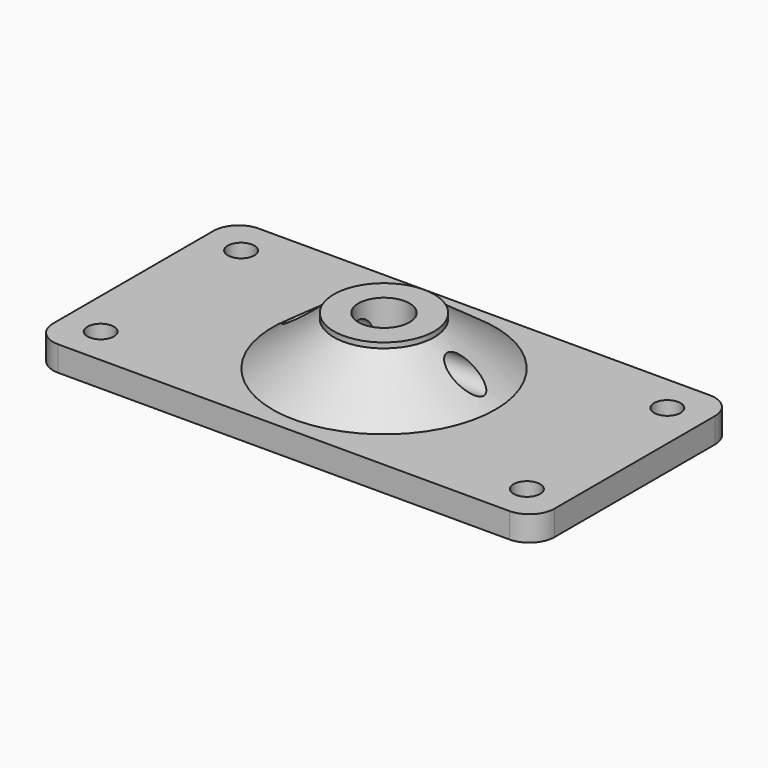
from build123d import *

# Parameters (mm, degrees)
F0_W           = 100
F0_H           = 50
F1_DEPTH       = 5
F2_R           = 10
F3_DEPTH       = 10
F4_R           = 5.1
F5_DEPTH       = 25
F6_R           = 5
F7_R           = 2.65
F8_DEPTH       = 25
F11_R          = 2.6
F12_DEPTH      = 25
F12_DEPTH_BACK = 25


with BuildPart() as f1:
    # F0 (on Top) → F1 (new body)
    with BuildSketch(Plane.XY):
        Rectangle(F0_W, F0_H)
    extrude(amount=F1_DEPTH)

    # F2 (on face) → F3 (join)
    with BuildSketch(Plane.XY.offset(5)):
        Circle(F2_R)
    extrude(amount=F3_DEPTH)

    # F4 (on face) → F5 (cut)
    with BuildSketch(Plane.XY.offset(15)):
        Circle(F4_R)
    extrude(amount=-F5_DEPTH, mode=Mode.SUBTRACT)

    # F6
    f6_edges = [f1.edges().sort_by_distance(p)[0] for p in [
        (-50, -25, 2.5),
        (-50, 25, 2.5),
        (50, 25, 2.5),
        (50, -25, 2.5),
    ]]
    fillet(f6_edges, radius=F6_R)

    # F7 (on face) → F8 (cut)
    with BuildSketch(Plane.XY.offset(5)):
        with Locations((42.5, 17.5)):
            Circle(F7_R)
        with Locations((42.5, -17.5)):
            Circle(F7_R)
        with Locations((-42.5, -17.5)):
            Circle(F7_R)
        with Locations((-42.5, 17.5)):
            Circle(F7_R)
    extrude(amount=-F8_DEPTH, mode=Mode.SUBTRACT)

    # F9 (on Front) → F10 (revolve)
    with BuildSketch(Plane.XZ):
        Polygon((22.2268737853, 5.2352962084), (10.0123630837, 13.9599470422), (9.8070763052, 5.2352962084), align=None)
    revolve(axis=Axis((0, 0, 5), (0, 0, -1)))

    # F11 (on Right) → F12 (cut, two sides)
    with BuildSketch(Plane.YZ) as f12_sk:
        with Locations((0, 9.5)):
            Circle(F11_R)
    extrude(amount=-F12_DEPTH, mode=Mode.SUBTRACT)
    extrude(f12_sk.sketch, amount=F12_DEPTH_BACK, mode=Mode.SUBTRACT)


solid = f1.part
